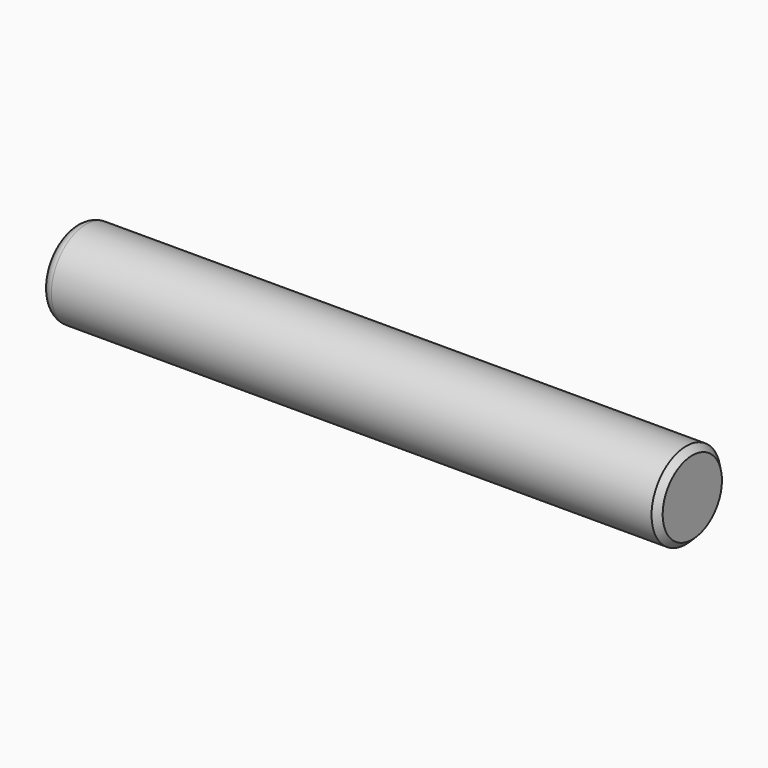
from build123d import *

# Parameters (mm, degrees)
F1_FACE_R = 1.1
F2_DEPTH  = 5
F3_SIZE   = 0.5


with BuildPart() as f1:
    # F0 (on Front) → F1 (revolve)
    with BuildSketch(Plane.XZ):
        with BuildLine():
            Line((0, 3.5), (-49.1, 3.5))
            ThreePointArc((-49.1, 3.5), (-49.736396, 3.236396), (-50, 2.6))
            ThreePointArc((-50, 2.6), (-49.56066, 1.53934), (-48.5, 1.1))
            Line((-48.5, 1.1), (-48.5, 0))
            Line((-48.5, 0), (0, 0))
            Line((0, 0), (0, 3.5))
        make_face()
    revolve(axis=Axis((-24.25, 0, 0), (-1, 0, 0)))

    # F1_face (on face) → F2 (cut)
    with BuildSketch(Plane(origin=(-48.5, 0, 0), x_dir=(0, -1, 0), z_dir=(-1, 0, 0))):
        Circle(F1_FACE_R)
    extrude(amount=-F2_DEPTH, mode=Mode.SUBTRACT)

    # F3
    f3_edges = [f1.edges().sort_by_distance(p)[0] for p in [
        (0, 0, -3.5),
    ]]
    chamfer(f3_edges, length=F3_SIZE)

    # F4 (on Top) → F5 (revolve, cut)
    with BuildSketch(Plane.XY):
        with BuildLine():
            Line((-42, 7.952198), (-44, 7.952198))
            Line((-44, 7.952198), (-44, 0))
            ThreePointArc((-44, 0), (-43.414214, -1.414214), (-42, -2))
            Line((-42, -2), (-42, 7.952198))
        make_face()
    revolve(axis=Axis((-42, 2.976099, 0), (0, 1, 0)), mode=Mode.SUBTRACT)

    # F6 (on Top) → F7 (revolve, cut)
    with BuildSketch(Plane.XY):
        with BuildLine():
            Line((-40, 6.121043), (-42, 6.121043))
            Line((-42, 6.121043), (-42, 0.973253))
            ThreePointArc((-42, 0.973253), (-41.414214, -0.440961), (-40, -1.026747))
            Line((-40, -1.026747), (-40, 0))
            Line((-40, 0), (-40, 3.5))
            Line((-40, 3.5), (-40, 6.121043))
        make_face()
    revolve(axis=Axis((-40, 2.547148, 0), (0, 1, 0)), mode=Mode.SUBTRACT)


solid = f1.part
